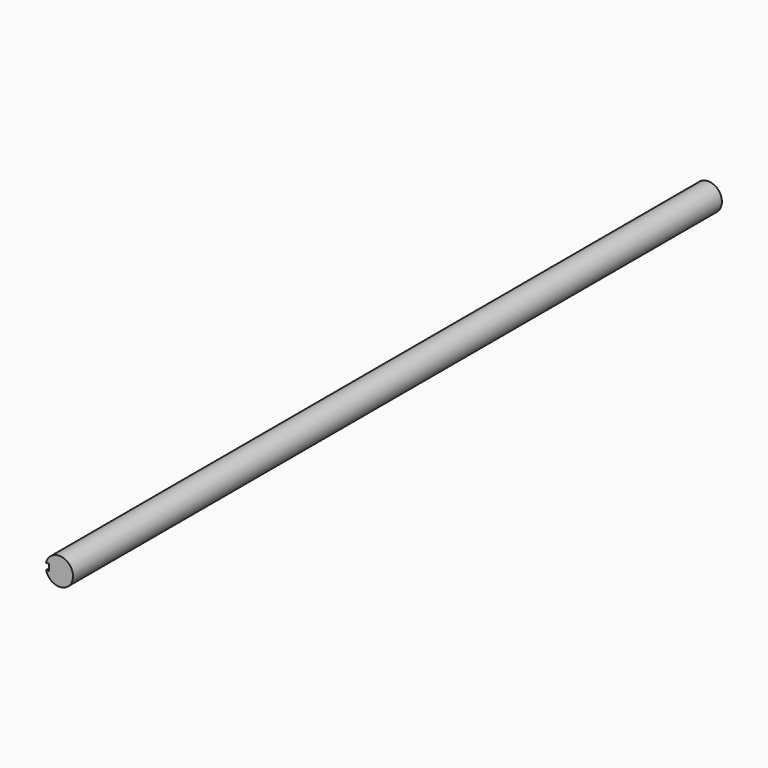
from build123d import *

# Parameters (mm, degrees)
F1_DEPTH = 304.8


with BuildPart() as f1:
    # F0 (on Front) → F1 (new body, symmetric)
    with BuildSketch(Plane.XZ):
        with BuildLine():
            ThreePointArc((-9.987148, -2.3876), (1.202065, -10.19798), (10.268581, 0))
            ThreePointArc((10.268581, 0), (1.202065, 10.19798), (-9.987148, 2.3876))
            Line((-9.987148, 2.3876), (-7.880981, 2.3876))
            Line((-7.880981, 2.3876), (-7.880981, -2.3876))
            Line((-7.880981, -2.3876), (-9.987148, -2.3876))
        make_face()
    extrude(amount=F1_DEPTH, both=True)


solid = f1.part
